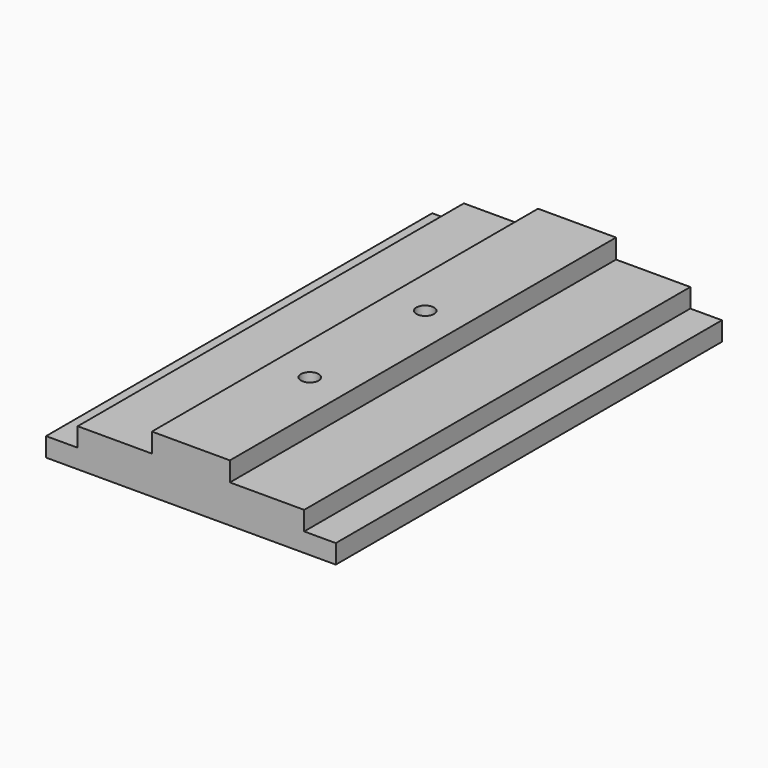
from build123d import *

# Parameters (mm, degrees)
F1_DEPTH = 48.4505
F2_R     = 1.778
F3_DEPTH = 11.5199
F4_W     = 6.985
F4_H     = 11.43
F4_R     = 1.778
F5_DEPTH = 7.62


with BuildPart() as f1:
    # F0 (on Front) → F1 (new body, symmetric)
    with BuildSketch(Plane.XZ):
        Polygon((-29.07665, -3.81), (-29.07665, -7.62), (29.08935, -7.62), (29.08935, -3.81), (22.73935, -3.81), (22.73935, 0), (7.82955, 0), (7.82955, 3.8989), (-7.82955, 3.8989), (-7.82955, 0), (-22.72665, 0), (-22.72665, -3.81), align=None)
    extrude(amount=F1_DEPTH, both=True)

    # F2 (on face) → F3 (cut, through all)
    with BuildSketch(Plane.XY.offset(3.8989)):
        with Locations((0, 10.3505)):
            Circle(F2_R)
        with Locations((0, -18.6055)):
            Circle(F2_R)
    extrude(amount=-F3_DEPTH, mode=Mode.SUBTRACT)

    # F4 (on face) → F5 (cut, through all)
    with BuildSketch(Plane(origin=(0, 0, -7.62), x_dir=(1, 0, 0), z_dir=(0, 0, -1))):
        with Locations((0, 18.6055)):
            Rectangle(F4_W, F4_H)
        with Locations((0, 18.6055)):
            Circle(F4_R, mode=Mode.SUBTRACT)
        with Locations((0, -10.3505)):
            Rectangle(F4_W, F4_H)
        with Locations((0, -10.3505)):
            Circle(F4_R, mode=Mode.SUBTRACT)
    extrude(amount=-F5_DEPTH, mode=Mode.SUBTRACT)


solid = f1.part
